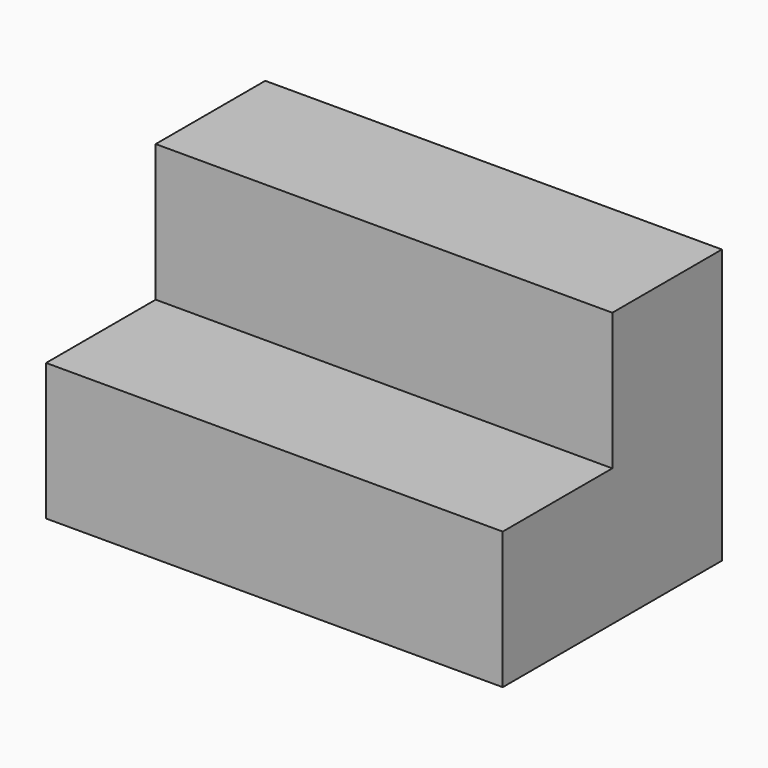
from build123d import *

# Parameters (mm, degrees)
F0_W     = 50
F0_H     = 15
F2_DEPTH = 30
F3_DEPTH = 50


with BuildPart() as f2:
    # F0 (on Front) → F2 (new body)
    with BuildSketch(Plane.XZ):
        with Locations((-25, 7.5)):
            Rectangle(F0_W, F0_H)
    extrude(amount=-F2_DEPTH)

    # F1 (on Right) → F3 (join)
    with BuildSketch(Plane.YZ):
        Polygon((15, 15), (0, 15), (0, 0), (30, 0), (30, 30), (15, 30), align=None)
    extrude(amount=-F3_DEPTH)


solid = f2.part
